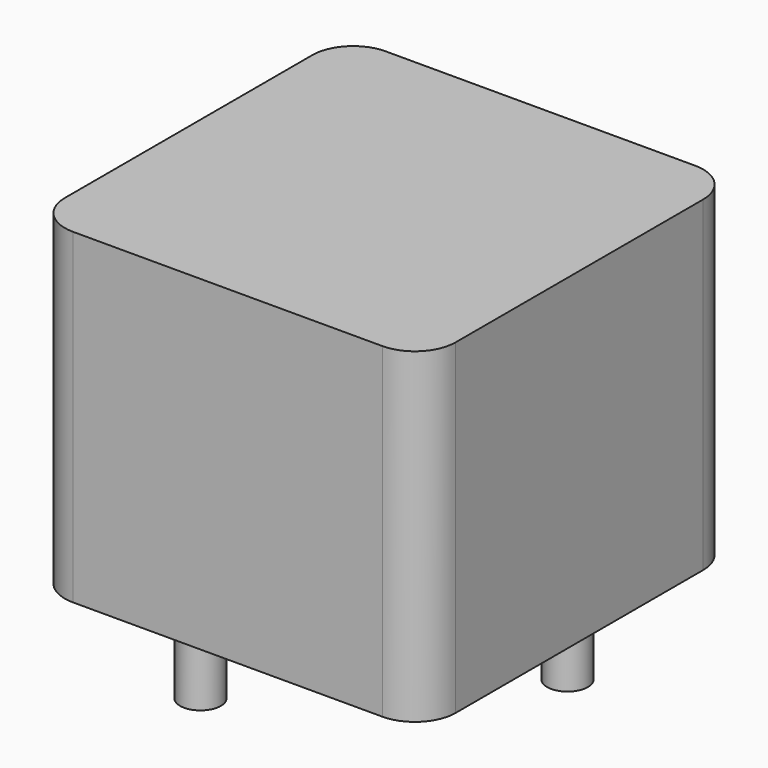
from build123d import *

# Parameters (mm, degrees)
SKETCH001_R  = 0.6
PAD001_DEPTH = 3.5
SKETCH_W     = 11.5
SKETCH_H     = 11.5
PAD_DEPTH    = 9.6
FILLET_R     = 1.2


with BuildPart() as pad001:
    # Sketch001 → Pad001 (new body)
    with BuildSketch(Plane.XY.offset(0.5)):
        Circle(SKETCH001_R)
        with Locations((6, 6)):
            Circle(SKETCH001_R)
    extrude(amount=-PAD001_DEPTH)


with BuildPart() as obj1:
    # Sketch → Pad (new body)
    with BuildSketch(Plane.XY.offset(0.1)):
        with Locations((3, 3)):
            Rectangle(SKETCH_W, SKETCH_H)
    extrude(amount=PAD_DEPTH)

    # Fillet
    fillet_edges = [obj1.edges().sort_by_distance(p)[0] for p in [
        (8.75, -2.75, 4.9),
        (8.75, 8.75, 4.9),
        (-2.75, -2.75, 4.9),
        (-2.75, 8.75, 4.9),
    ]]
    fillet(fillet_edges, radius=FILLET_R)

    # obj1: union Pad001
    add(pad001.part)


solid = obj1.part
